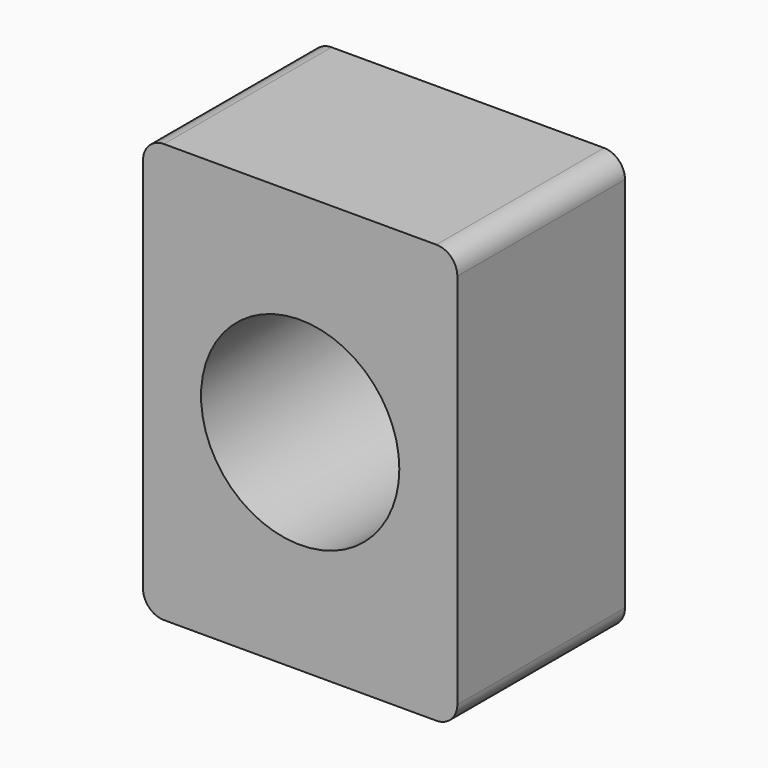
from build123d import *

# Parameters (mm, degrees)
F0_W     = 76.2
F0_H     = 101.6
F1_DEPTH = 25.4
F2_R     = 24.034722
F3_DEPTH = 50.801
F4_R     = 5.08


with BuildPart() as f1:
    # F0 (on Front) → F1 (new body, symmetric)
    with BuildSketch(Plane.XZ):
        Rectangle(F0_W, F0_H)
    extrude(amount=F1_DEPTH, both=True)

    # F2 (on face) → F3 (cut, through all)
    with BuildSketch(Plane.XZ.offset(25.4)):
        Circle(F2_R)
    extrude(amount=-F3_DEPTH, mode=Mode.SUBTRACT)

    # F4
    f4_edges = [f1.edges().sort_by_distance(p)[0] for p in [
        (-38.1, 0, 50.8),
        (38.1, 0, 50.8),
        (38.1, 0, -50.8),
        (-38.1, 0, -50.8),
    ]]
    fillet(f4_edges, radius=F4_R)


solid = f1.part
